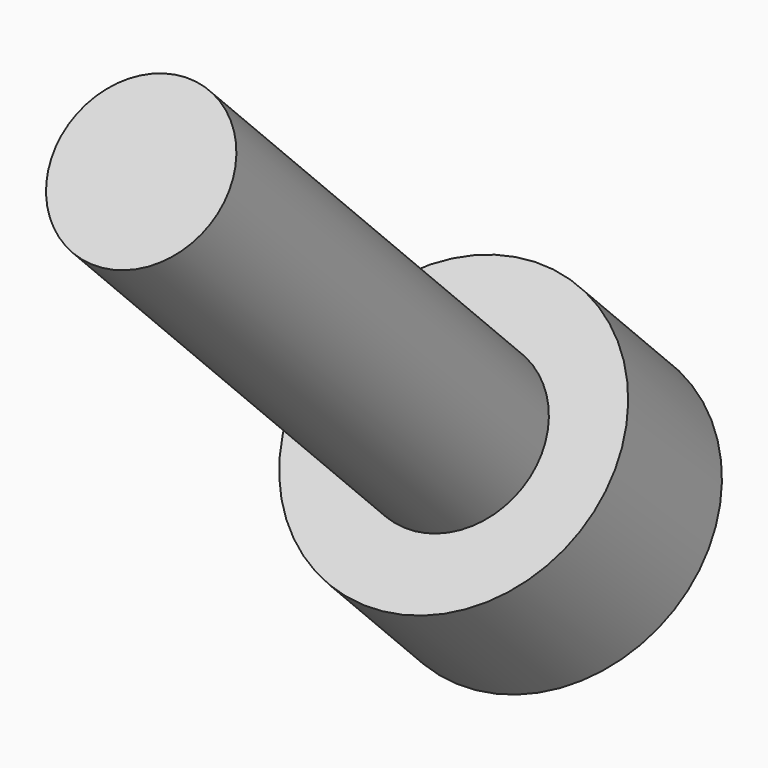
from build123d import *

# Parameters (mm, degrees)
SKETCH022_R             = 2.75
PAD011_DEPTH            = 3
SKETCH023_R             = 1.5
PAD010_DEPTH            = 10
POCKET012_DEPTH         = 4
BODY004_PLACEMENT_ANGLE = 225


with BuildPart() as part:
    # Sketch022 → Pad011 (new body)
    with BuildSketch(Plane.XY):
        Circle(SKETCH022_R)
    extrude(amount=PAD011_DEPTH)

    # Sketch023 (on Face2 of Pad011) → Pad010 (join)
    with BuildSketch(Plane(origin=(0, 0, 0), x_dir=(1, 0, 0), z_dir=(0, 0, -1))):
        Circle(SKETCH023_R)
    extrude(amount=PAD010_DEPTH)

    # Sketch024 (on DatumPlane) → Pocket012 (cut)
    with BuildSketch(Plane.XY.offset(3)):
        Polygon((0.721688, -1.25), (1.443376, 0), (0.721688, 1.25), (-0.721688, 1.25), (-1.443376, 0), (-0.721688, -1.25), align=None)
    extrude(amount=-POCKET012_DEPTH, mode=Mode.SUBTRACT)


with BuildPart() as part_1:
    # Body004 placement: moved
    add(part.part.moved(Location((-108.5, -61.581981, 5.727565))).rotate(Axis((-108.5, -61.581981, 5.727565), (1, 0, 0)), BODY004_PLACEMENT_ANGLE))


solid = part_1.part
